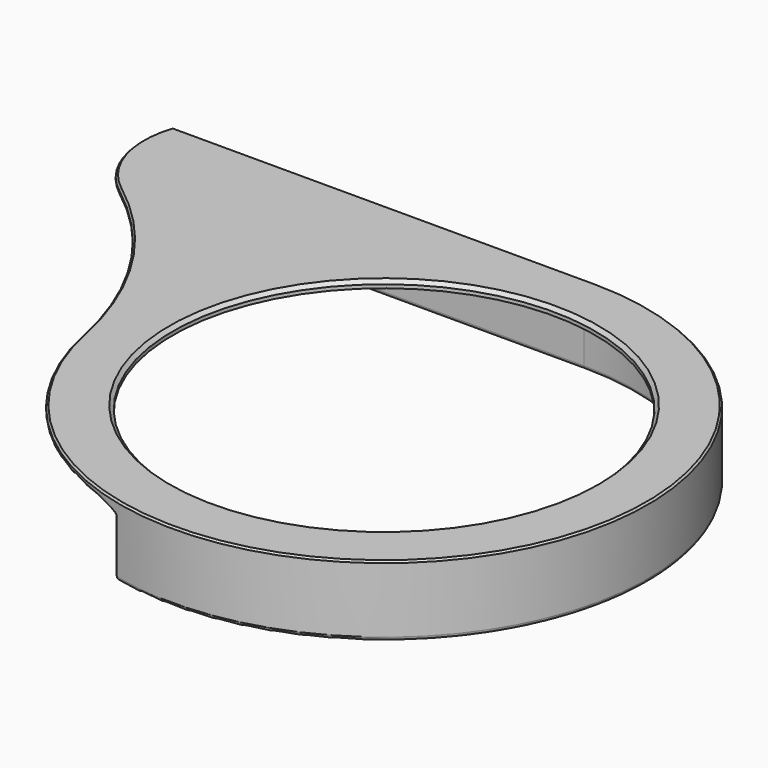
from build123d import *

# Parameters (mm, degrees)
SKETCH_R        = 60
PAD_DEPTH       = 20
POCKET_DEPTH    = 18
FILLET_R        = 2
FILLET001_R     = 1
CHAMFER_SIZE    = 0.5
FILLET002_R     = 2
FILLET003_R     = 1
CHAMFER001_SIZE = 1


with BuildPart() as part:
    # Sketch → Pad (new body)
    with BuildSketch(Plane.XY):
        with BuildLine():
            ThreePointArc((-73.484692, -15), (58.09475, -47.434165), (0, 75))
            Line((-120, 75), (0, 75))
            ThreePointArc((-120, 75), (-120.393773, 58.298385), (-110.885031, 44.562198))
            ThreePointArc((-73.484692, -15), (-86.775791, 18.177566), (-110.885031, 44.562198))
        make_face()
        Circle(SKETCH_R, mode=Mode.SUBTRACT)
    extrude(amount=PAD_DEPTH)

    # Sketch001 → Pocket (cut)
    with BuildSketch(Plane(origin=(0, 0, 0), x_dir=(1, 0, 0), z_dir=(0, 0, -1))):
        with BuildLine():
            Line((-146.216, -71), (0, -71))
            ThreePointArc((0, -71), (71, 0), (0, 71))
            Line((0, 71), (-146.216, 71))
            Line((-146.216, -71), (-146.216, 71))
        make_face()
    extrude(amount=-POCKET_DEPTH, mode=Mode.SUBTRACT)

    # Fillet
    fillet_edges = [part.edges().sort_by_distance(p)[0] for p in [
        (71, 0, 18),
    ]]
    fillet(fillet_edges, radius=FILLET_R)

    # Fillet001
    fillet001_edges = [part.edges().sort_by_distance(p)[0] for p in [
        (-24.166092, -71, 8),
    ]]
    fillet(fillet001_edges, radius=FILLET001_R)

    # Chamfer
    chamfer_edges = [part.edges().sort_by_distance(p)[0] for p in [
        (-60, 75, 20),
    ]]
    chamfer(chamfer_edges, length=CHAMFER_SIZE)

    # Fillet002
    fillet002_edges = [part.edges().sort_by_distance(p)[0] for p in [
        (-120, 75, 9.75),
    ]]
    fillet(fillet002_edges, radius=FILLET002_R)

    # Fillet003
    fillet003_edges = [part.edges().sort_by_distance(p)[0] for p in [
        (74.49152, -8.718573, 0),
    ]]
    fillet(fillet003_edges, radius=FILLET003_R)

    # Chamfer001
    chamfer001_edges = [part.edges().sort_by_distance(p)[0] for p in [
        (-60, 0, 20),
    ]]
    chamfer(chamfer001_edges, length=CHAMFER001_SIZE)


solid = part.part
